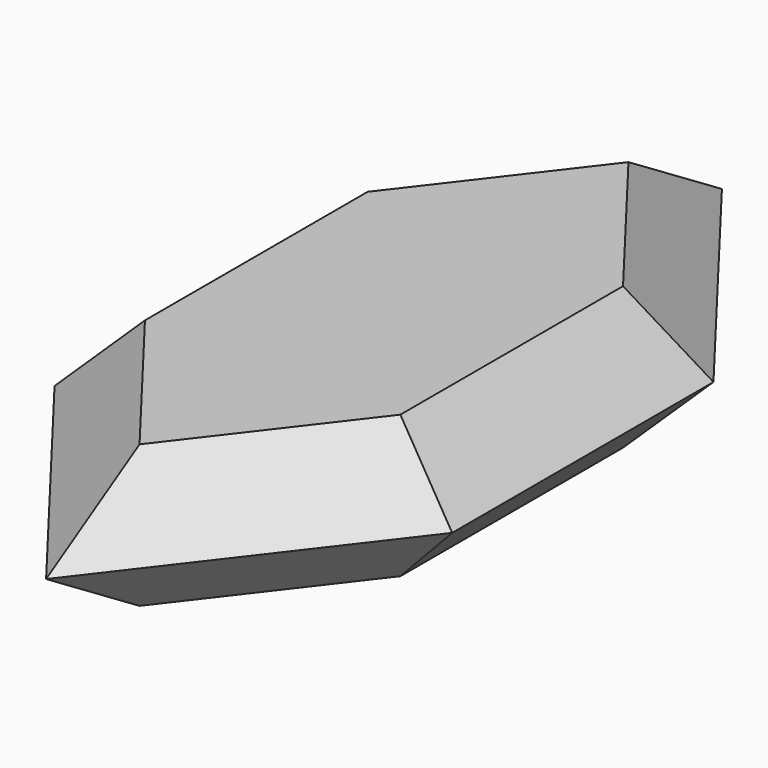
from build123d import *

# Parameters (mm, degrees)
F1_DEPTH = 5
F1_TAPER = 45


with BuildPart() as f1:
    # F0 (on Top) → F1 (new body)
    with BuildSketch(Plane.XY):
        Polygon((0, 29.7006979173), (-13.9796594971, 11.482050957), (-13.9796594971, -11.482050957), (0, -29.7006979173), (13.9796594971, -11.482050957), (13.9796594971, 11.482050957), align=None)
    extrude(amount=F1_DEPTH, taper=F1_TAPER)

    # F2: F1 across plane


with BuildPart() as f1_1:
    add(f1.part)
    add(f1.part.mirror(Plane.XY))


solid = f1_1.part
